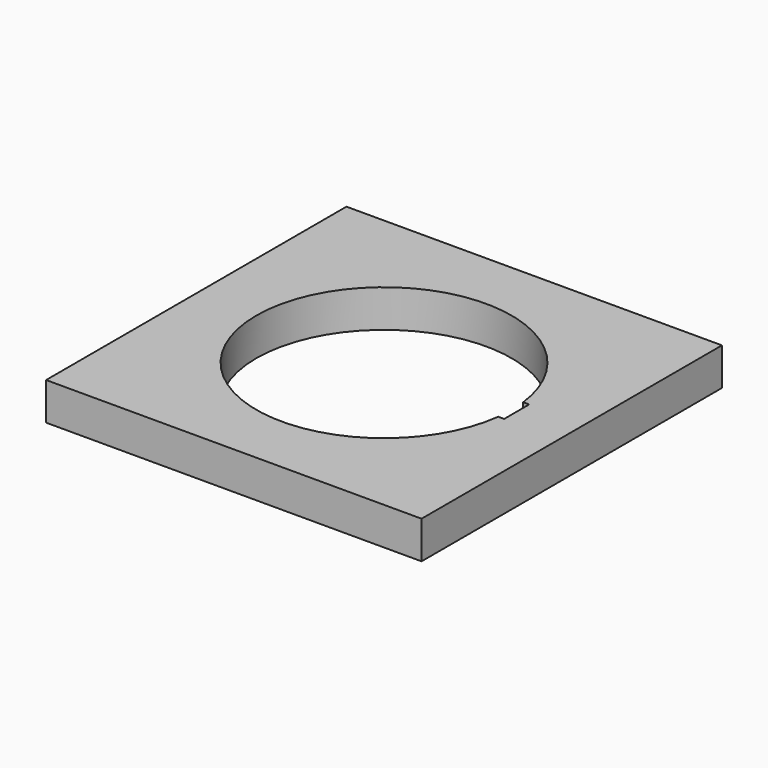
from build123d import *

# Parameters (mm, degrees)
BOX034_W          = 10
BOX034_H          = 2.5
BOX034_DEPTH      = 10
CYLINDER029_R     = 10.2
CYLINDER029_DEPTH = 10
BOX035_W          = 30
BOX035_H          = 30
BOX035_DEPTH      = 3


with BuildPart() as cube034:
    # Box034 → Box034 (new body)
    with BuildSketch(Plane(origin=(85.6, 163.75, -5), x_dir=(1, 0, 0), z_dir=(0, 0, 1))):
        with Locations((5, 1.25)):
            Rectangle(BOX034_W, BOX034_H)
    extrude(amount=BOX034_DEPTH)


with BuildPart() as obj1:
    # Cylinder029 → Cylinder029 (new body)
    with BuildSketch(Plane(origin=(85, 165, -5), x_dir=(1, 0, 0), z_dir=(0, 0, 1))):
        Circle(CYLINDER029_R)
    extrude(amount=CYLINDER029_DEPTH)

    # Fusion001: union Cube034
    add(cube034.part)


with BuildPart() as obj1_1:
    # Fusion001 placement: moved
    add(obj1.part.moved(Location((130, 50, 0))))


with BuildPart() as obj2:
    # Box035 → Box035 (new body)
    with BuildSketch(Plane(origin=(200, 200, 0), x_dir=(1, 0, 0), z_dir=(0, 0, 1))):
        with Locations((15, 15)):
            Rectangle(BOX035_W, BOX035_H)
    extrude(amount=BOX035_DEPTH)

    # Cut044: cut obj1
    add(obj1_1.part, mode=Mode.SUBTRACT)


solid = obj2.part
